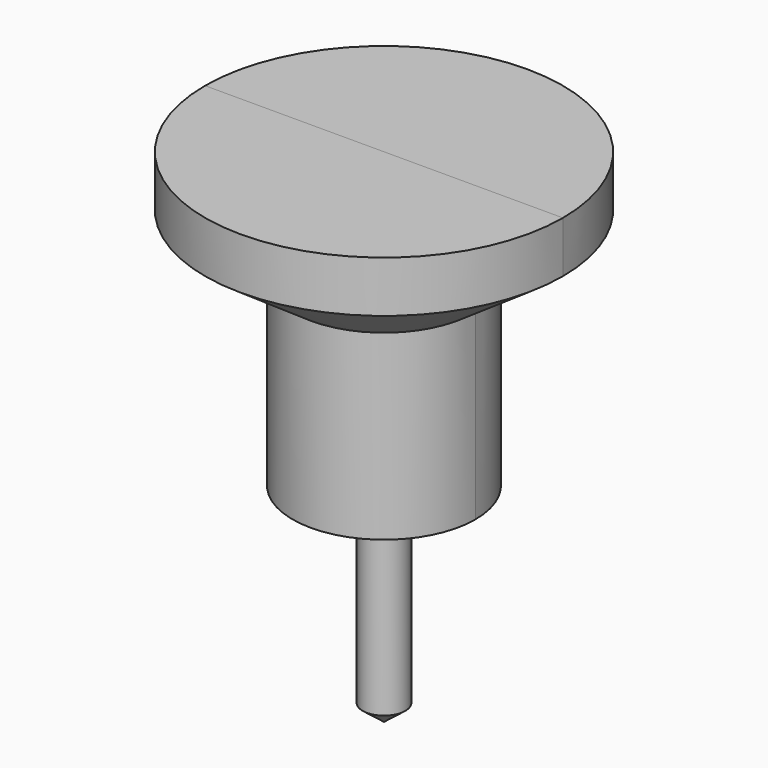
from build123d import *

# Parameters (mm, degrees)
F2_ANGLE = 180
F3_ANGLE = -180


with BuildPart() as f1:
    # F0 (on Front) → F1 (revolve)
    with BuildSketch(Plane.XZ):
        Polygon((0, 11.83526), (0, -11.653179), (1.624448, -10.385728), (1.624448, 7.465318), (2.549133, 7.465318), (2.549133, 11.83526), align=None)
    revolve(axis=Axis((0, 0, 4.426354), (0, 0, -1)))


with BuildPart() as f2:
    # F0 (on Front) → F2 (revolve)
    with BuildSketch(Plane.XZ):
        Polygon((13.607997, 26.514072), (0, 26.514072), (0, 12.810619), (3.349548, 12.810619), (3.349548, 6.915838), (2.277769, 6.915838), (2.277769, 4.159836), (6.947661, 4.159836), (6.947661, 18.0164), (13.607997, 22.609735), align=None)
    revolve(axis=Axis((0, 0, 4.426354), (0, 0, -1)), revolution_arc=F2_ANGLE)


with BuildPart() as f3:
    # F0 (on Front) → F3 (revolve)
    with BuildSketch(Plane.XZ):
        Polygon((13.607997, 26.514072), (0, 26.514072), (0, 12.810619), (3.349548, 12.810619), (3.349548, 6.915838), (2.277769, 6.915838), (2.277769, 4.159836), (6.947661, 4.159836), (6.947661, 18.0164), (13.607997, 22.609735), align=None)
    revolve(axis=Axis((0, 0, 4.426354), (0, 0, -1)), revolution_arc=F3_ANGLE)


solid = Compound([f1.part, f2.part, f3.part])
